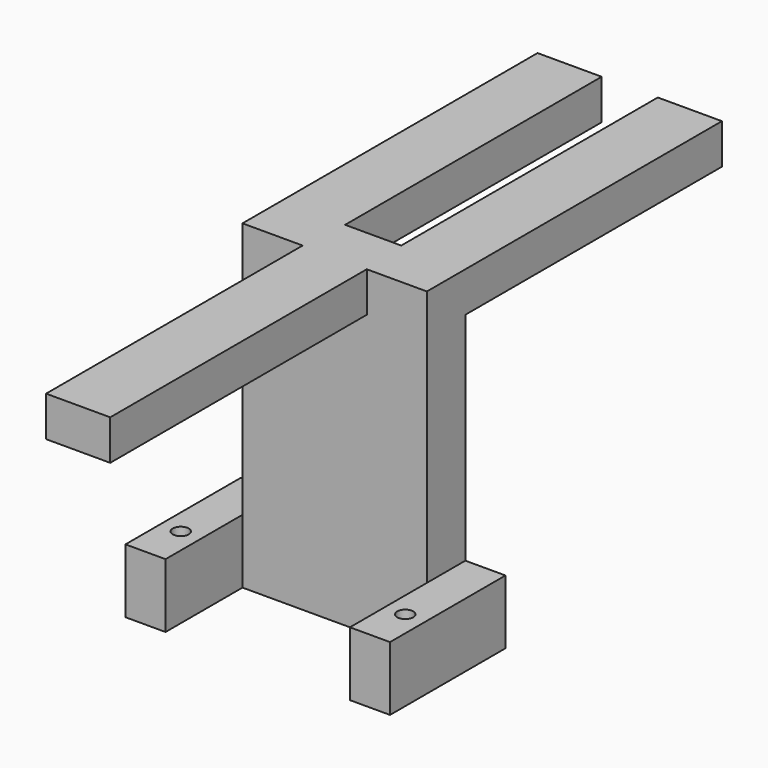
from build123d import *

# Parameters (mm, degrees)
F0_R     = 1
F1_DEPTH = 8
F0_W     = 23
F0_H     = 6
F2_DEPTH = 40
F4_START = 35
F3_W     = 8
F3_H     = 40
F4_DEPTH = 5


with BuildPart() as f1:
    # F0 (on Top) → F1 (new body)
    with BuildSketch(Plane.XY):
        Polygon((-11.5, 1.7857142857), (-11.5, 7.7857142857), (-16.5, 7.7857142857), (-16.5, -10.2142857143), (-11.5, -10.2142857143), align=None)
        with Locations((-14, -4.7142857143)):
            Circle(F0_R, mode=Mode.SUBTRACT)
    extrude(amount=F1_DEPTH)



with BuildPart() as f1b:
    # F0 (on Top) → F1, piece 2 (new body)
    with BuildSketch(Plane.XY):
        Polygon((16.5, 7.7857142857), (11.5, 7.7857142857), (11.5, 1.7857142857), (11.5, -10.2142857143), (16.5, -10.2142857143), align=None)
        with Locations((14, -4.7142857143)):
            Circle(F0_R, mode=Mode.SUBTRACT)
    extrude(amount=F1_DEPTH)


with BuildPart() as f1_1:
    add(f1.part)

    add(f1b.part)  # F2 merges F1b
    # F0 (on Top) → F2 (join)
    with BuildSketch(Plane.XY):
        with Locations((0, 4.7857142857)):
            Rectangle(F0_W, F0_H)
    extrude(amount=F2_DEPTH)

    # F3 (on Top) → F4 (join)
    with BuildSketch(Plane.XY.offset(F4_START)):
        with Locations((-7.5, 27.7857142857)):
            Rectangle(F3_W, F3_H)
        with Locations((7.5, 27.7857142857)):
            Rectangle(F3_W, F3_H)
        with Locations((0, -18.2142857143)):
            Rectangle(F3_W, F3_H)
    extrude(amount=F4_DEPTH)


solid = f1_1.part
